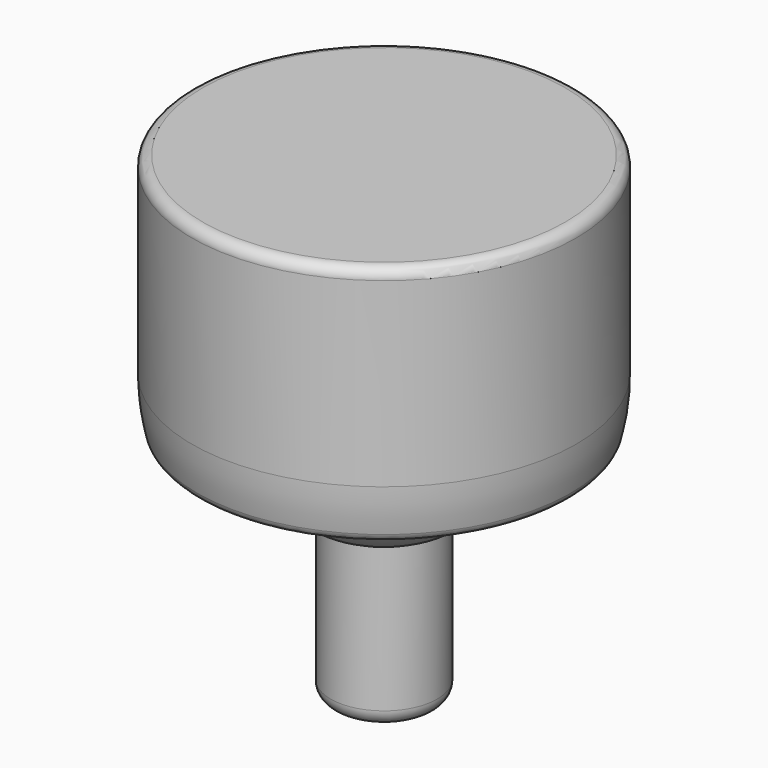
from build123d import *

# Parameters (mm, degrees)
F2_R = 3
F5_R = 2
F6_R = 2


with BuildPart() as f1:
    # F0 (on Front) → F1 (revolve)
    with BuildSketch(Plane.XZ):
        with BuildLine():
            Line((-10, 30), (-10, 0))
            Line((-10, 0), (0, 0))
            Line((0, 0), (0, 75.8174242293))
            ThreePointArc((0, 75.8174242293), (-23.448008247, 56.9351296964), (-10, 30))
        make_face()
    revolve(axis=Axis((0, 0, 37.9087121146), (0, 0, -1)))

    # F2
    f2_edges = [f1.edges().sort_by_distance(p)[0] for p in [
        (10, 0, 0),
    ]]
    fillet(f2_edges, radius=F2_R)


with BuildPart() as f4:
    # F3 (on Front) → F4 (revolve)
    with BuildSketch(Plane.XZ):
        with BuildLine():
            ThreePointArc((-24.7679079538, 43.5631129518), (-20.9956121583, 66.8077340189), (0, 77.472015252))
            Line((0, 77.472015252), (0, 89.472015252))
            Line((0, 89.472015252), (-36, 89.472015252))
            Line((-36, 89.472015252), (-36, 53.472015252))
            ThreePointArc((-36, 53.472015252), (-35.6506662311, 48.4690164231), (-34.6094445954, 43.5631129518))
            Line((-34.6094445954, 43.5631129518), (-26.9140184811, 43.5631129518))
            Line((-26.9140184811, 43.5631129518), (-24.7679079538, 43.5631129518))
        make_face()
    revolve(axis=Axis((0, 0, 59.5175641019), (0, 0, 1)))

    # F5
    f5_edges = [f4.edges().sort_by_distance(p)[0] for p in [
        (36, 0, 53.472015),
        (34.609445, 0, 43.563113),
        (-35.650666, 0, 48.469016),
        (36, 0, 89.472015),
    ]]
    fillet(f5_edges, radius=F5_R)

    # F6
    f6_edges = [f4.edges().sort_by_distance(p)[0] for p in [
        (24.767908, 0, 43.563113),
    ]]
    fillet(f6_edges, radius=F6_R)


solid = Compound([f1.part, f4.part])
